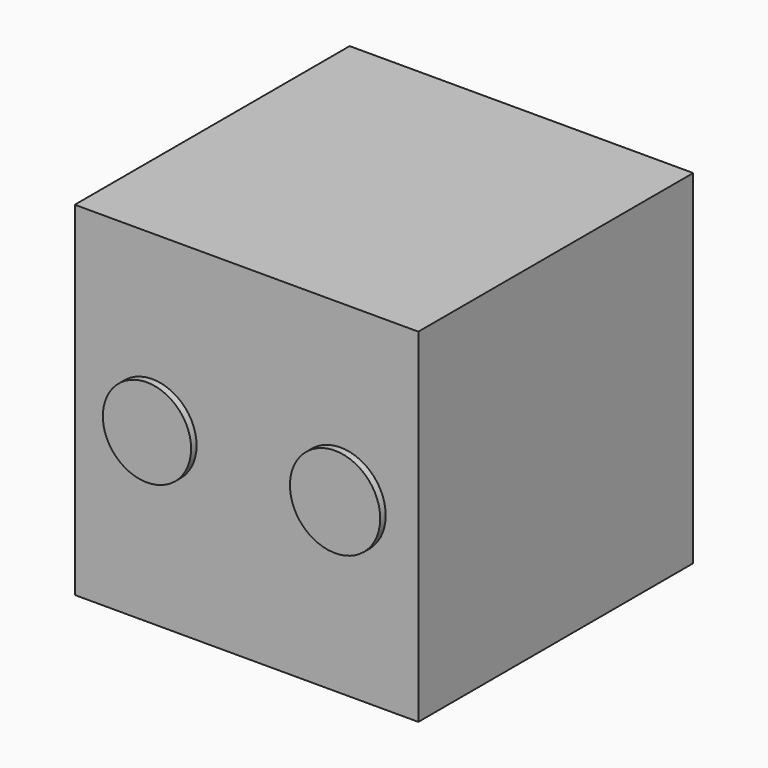
from build123d import *

# Parameters (mm, degrees)
F0_W     = 50
F0_H     = 50
F1_DEPTH = 50
F2_R     = 7.52824
F3_DEPTH = 1
F4_R     = 6.420566
F4_R_2   = 6.569333
F5_DEPTH = 1


with BuildPart() as f1:
    # F0 (on Front) → F1 (new body)
    with BuildSketch(Plane.XZ):
        with Locations((0.587589, 0.085707)):
            Rectangle(F0_W, F0_H)
    extrude(amount=F1_DEPTH)

    # F2 (on face) → F3 (join)
    with BuildSketch(Plane(origin=(0, 0, -24.914293), x_dir=(1, 0, 0), z_dir=(0, 0, -1))):
        with Locations((0, 26.31426)):
            Circle(F2_R)
    extrude(amount=F3_DEPTH)

    # F4 (on face) → F5 (join)
    with BuildSketch(Plane.XZ.offset(50)):
        with Locations((-13.108936, 0)):
            Circle(F4_R)
        with Locations((14.265605, 0)):
            Circle(F4_R_2)
    extrude(amount=F5_DEPTH)


solid = f1.part
